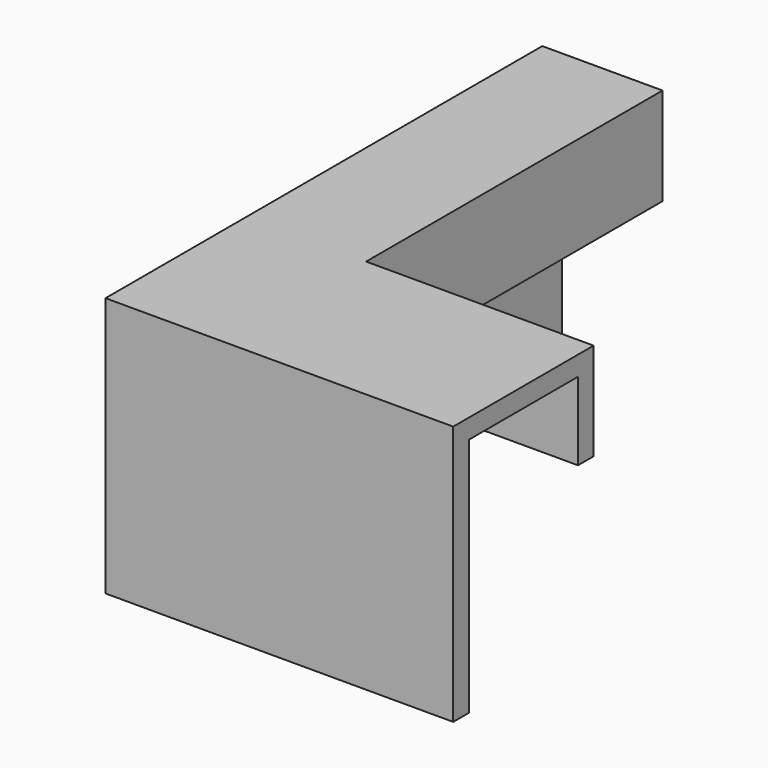
from build123d import *

# Parameters (mm, degrees)
F2_DEPTH = 3
F3_DEPTH = 40
F4_DEPTH = 15
F5_SIZE  = 7


with BuildPart() as f2:
    # F1 (on Top) → F2 (new body)
    with BuildSketch(Plane.XY):
        Polygon((0, 60), (-12.5, 60), (-12.5, -21), (38, -21), (38, 0), (0, 0), align=None)
    extrude(amount=-F2_DEPTH)

    # F1 (on Top) → F3 (join)
    with BuildSketch(Plane.XY):
        Polygon((-12.5, -21), (-12.5, 60), (-15.5, 60), (-15.5, -24), (38, -24), (38, -21), align=None)
    extrude(amount=-F3_DEPTH)

    # F1 (on Top) → F4 (join)
    with BuildSketch(Plane.XY):
        Polygon((3, 60), (0, 60), (0, 0), (38, 0), (38, 3), (3, 3), align=None)
    extrude(amount=-F4_DEPTH)

    # F5
    f5_edges = [f2.edges().sort_by_distance(p)[0] for p in [
        (-12.5, -21, -21.5),
    ]]
    chamfer(f5_edges, length=F5_SIZE)


solid = f2.part
